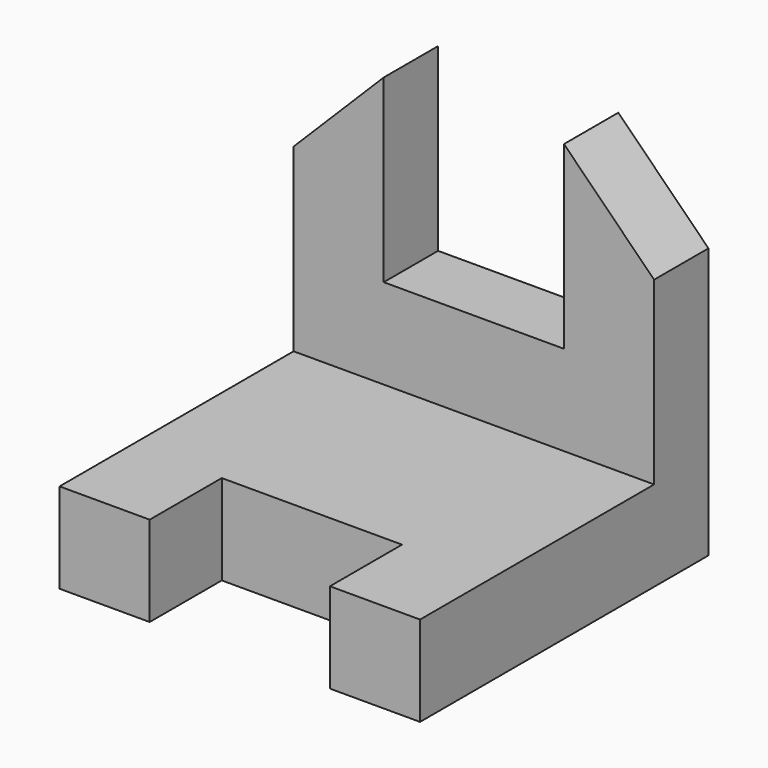
from build123d import *

# Parameters (mm, degrees)
F0_W     = 101.6
F0_H     = 101.6
F1_DEPTH = 101.6
F2_W     = 101.6
F2_H     = 82.4549061418
F3_DEPTH = 76.2
F4_W     = 50.8
F4_H     = 25.4
F5_DEPTH = 50.546
F6_W     = 50.8
F6_H     = 19.1450938582
F7_DEPTH = 50.8
F9_DEPTH = 136.906


with BuildPart() as f1:
    # F0 (on Front) → F1 (new body)
    with BuildSketch(Plane.XZ):
        with Locations((-50.8, -50.8)):
            Rectangle(F0_W, F0_H)
    extrude(amount=F1_DEPTH)

    # F2 (on face) → F3 (cut)
    with BuildSketch(Plane.XY):
        with Locations((-50.8, -60.3725469291)):
            Rectangle(F2_W, F2_H)
    extrude(amount=-F3_DEPTH, mode=Mode.SUBTRACT)

    # F4 (on face) → F5 (cut)
    with BuildSketch(Plane.XY.offset(-76.2)):
        with Locations((-50.8, -88.9)):
            Rectangle(F4_W, F4_H)
    extrude(amount=-F5_DEPTH, mode=Mode.SUBTRACT)

    # F6 (on face) → F7 (cut)
    with BuildSketch(Plane.XY):
        with Locations((-50.8, -9.5725469291)):
            Rectangle(F6_W, F6_H)
    extrude(amount=-F7_DEPTH, mode=Mode.SUBTRACT)

    # F8 (on face) → F9 (cut)
    with BuildSketch(Plane.XZ.offset(19.1450938582)):
        Polygon((-101.6, 0), (-101.6, -25.4), (-76.2, 0), align=None)
        Polygon((-25.4, 0), (0, -25.4), (0, 0), align=None)
    extrude(amount=-F9_DEPTH, mode=Mode.SUBTRACT)


solid = f1.part
